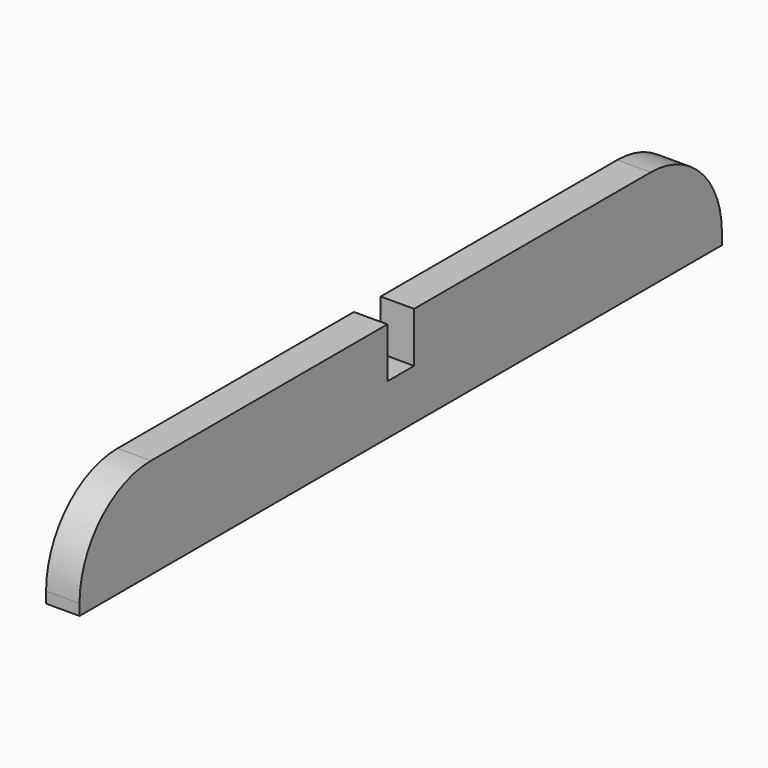
from build123d import *

# Parameters (mm, degrees)
F0_W     = 19.05
F0_H     = 57.15
F1_DEPTH = 457.2
F2_W     = 19.05
F2_H     = 28.575
F3_DEPTH = 19.05
F4_R     = 50.8


with BuildPart() as f1:
    # F0 (on Front) → F1 (new body)
    with BuildSketch(Plane.XZ):
        with Locations((9.525, 28.575)):
            Rectangle(F0_W, F0_H)
    extrude(amount=F1_DEPTH)

    # F2 (on face) → F3 (cut, through all)
    with BuildSketch(Plane.YZ.offset(19.05)):
        with Locations((-228.6, 42.8625)):
            Rectangle(F2_W, F2_H)
    extrude(amount=-F3_DEPTH, mode=Mode.SUBTRACT)

    # F4
    f4_edges = [f1.edges().sort_by_distance(p)[0] for p in [
        (9.525, 0, 57.15),
        (9.525, -457.2, 57.15),
    ]]
    fillet(f4_edges, radius=F4_R)


solid = f1.part
